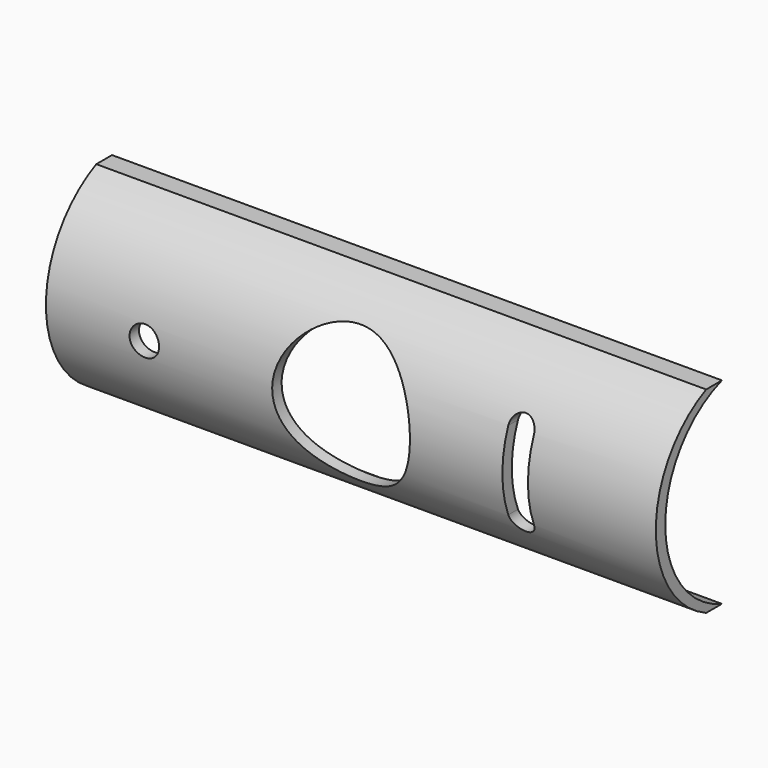
from build123d import *

# Parameters (mm, degrees)
F1_DEPTH = 39.37
F3_D     = 8.89
F5_D     = 1.905
F7_DEPTH = 16.002


with BuildPart() as f1:
    # F0 (on Right) → F1 (new body)
    with BuildSketch(Plane.YZ):
        with BuildLine():
            Line((-1.27, 0), (0, 0))
            ThreePointArc((0, 0), (-4.572, 6.35), (0, 12.7))
            Line((0, 12.7), (-1.27, 12.7))
            ThreePointArc((-1.27, 12.7), (-5.334, 6.35), (-1.27, 0))
        make_face()
    extrude(amount=F1_DEPTH)

    # F3 (through all)
    with Locations(Plane(origin=(0, 0, 0), x_dir=(1, 0, 0), z_dir=(0, 1, 0))):
        with Locations((19.05, -6.35)):
            Hole(F3_D / 2)

    # F5 (through all)
    with Locations(Plane(origin=(0, 0, 0), x_dir=(1, 0, 0), z_dir=(0, 1, 0))):
        with Locations((6.35, -6.35)):
            Hole(F5_D / 2)

    # F6 (on Front) → F7 (cut)
    with BuildSketch(Plane.XZ):
        with BuildLine():
            Line((29.464, 8.89), (29.464, 6.35))
            Line((29.464, 6.35), (29.464, 3.81))
            ThreePointArc((29.464, 3.81), (30.2895, 2.9845), (31.115, 3.81))
            Line((31.115, 3.81), (31.115, 6.35))
            Line((31.115, 6.35), (31.115, 8.89))
            ThreePointArc((31.115, 8.89), (30.2895, 9.7155), (29.464, 8.89))
        make_face()
    extrude(amount=F7_DEPTH, mode=Mode.SUBTRACT)


solid = f1.part
